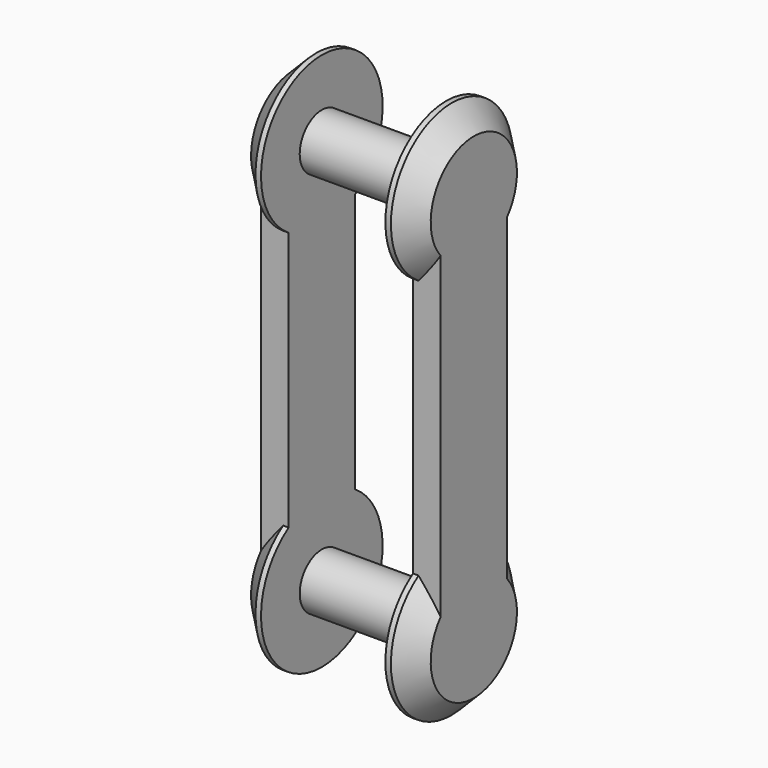
from build123d import *

# Parameters (mm, degrees)
F0_R     = 6.35
F1_DEPTH = 14.2875
F3_DEPTH = 6.35
F4_SIZE  = 5.08
F5_R     = 6.35
F6_DEPTH = 28.575


with BuildPart() as f1:
    # F0 (on Right) → F1 (new body, symmetric)
    with BuildSketch(Plane.YZ):
        Circle(F0_R)
    extrude(amount=F1_DEPTH, both=True)

    # F2 (on face) → F3 (join)
    with BuildSketch(Plane.YZ.offset(14.2875)):
        with BuildLine():
            Line((9.525, 88.9), (9.525, 74.263973174))
            ThreePointArc((9.525, 74.263973174), (15.3503944371, 80.5750797676), (17.4625, 88.9))
            ThreePointArc((17.4625, 88.9), (-8.3249202324, 104.2503944371), (-9.525, 74.263973174))
            Line((-9.525, 74.263973174), (-9.525, 88.9))
            Line((-9.525, 88.9), (9.525, 88.9))
        make_face()
        with BuildLine():
            ThreePointArc((-9.525, 74.263973174), (0, 71.4375), (9.525, 74.263973174))
            Line((9.525, 74.263973174), (9.525, 88.9))
            Line((9.525, 88.9), (-9.525, 88.9))
            Line((-9.525, 88.9), (-9.525, 74.263973174))
        make_face()
        with BuildLine():
            ThreePointArc((-9.525, 14.636026826), (0, 17.4625), (9.525, 14.636026826))
            Line((9.525, 14.636026826), (9.525, 74.263973174))
            ThreePointArc((9.525, 74.263973174), (0, 71.4375), (-9.525, 74.263973174))
            Line((-9.525, 74.263973174), (-9.525, 14.636026826))
        make_face()
        with BuildLine():
            Line((9.525, 0), (9.525, 14.636026826))
            ThreePointArc((9.525, 14.636026826), (0, 17.4625), (-9.525, 14.636026826))
            Line((-9.525, 14.636026826), (-9.525, 0))
            Line((-9.525, 0), (-6.35, 0))
            ThreePointArc((-6.35, 0), (0, 6.35), (6.35, 0))
            Line((6.35, 0), (9.525, 0))
        make_face()
        with BuildLine():
            ThreePointArc((-6.35, 0), (0, -6.35), (6.35, 0))
            Line((6.35, 0), (-6.35, 0))
        make_face()
        with BuildLine():
            ThreePointArc((-9.525, 14.636026826), (-8.3249202324, -15.3503944371), (17.4625, 0))
            ThreePointArc((17.4625, 0), (15.3503944371, 8.3249202324), (9.525, 14.636026826))
            Line((9.525, 14.636026826), (9.525, 0))
            Line((9.525, 0), (6.35, 0))
            ThreePointArc((6.35, 0), (0, -6.35), (-6.35, 0))
            Line((-6.35, 0), (-9.525, 0))
            Line((-9.525, 0), (-9.525, 14.636026826))
        make_face()
        with BuildLine():
            Line((-6.35, 0), (6.35, 0))
            ThreePointArc((6.35, 0), (0, 6.35), (-6.35, 0))
        make_face()
    extrude(amount=F3_DEPTH)

    # F4
    f4_edges = [f1.edges().sort_by_distance(p)[0] for p in [
        (20.6375, 0, 106.3625),
        (20.6375, 0, -17.4625),
    ]]
    chamfer(f4_edges, length=F4_SIZE)

    # F5 (on face) → F6 (join)
    with BuildSketch(Plane(origin=(14.2875, 0, 0), x_dir=(0, -1, 0), z_dir=(-1, 0, 0))):
        with Locations((0, 88.9)):
            Circle(F5_R)
    extrude(amount=F6_DEPTH)

    # F7: F1 across plane


with BuildPart() as f1_1:
    add(f1.part)
    add(f1.part.mirror(Plane.YZ))


solid = f1_1.part
